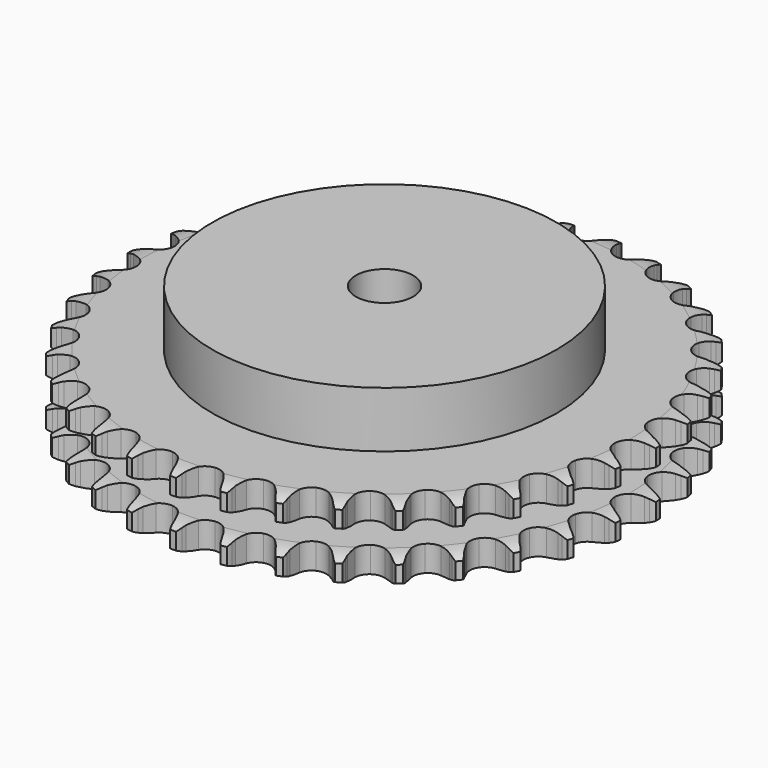
from build123d import *

# Parameters (mm, degrees)
PAD_DEPTH         = 25.5
SKETCH001_R       = 60
PAD001_DEPTH      = 45
SKETCH002_R       = 10
POCKET_DEPTH      = 0.001
POCKET_DEPTH_BACK = 45.001


with BuildPart() as part:
    # Sprocket → Pad (new body)
    with BuildSketch(Plane.XY):
        with BuildLine():
            ThreePointArc((-8.385006, 93.16505), (-7.238403, 91.760674), (-6.426064, 90.139849))
            Line((-6.426064, 90.139849), (-5.930423, 88.800984))
            ThreePointArc((-5.930423, 88.800984), (-5.146021, 87.072923), (-4.123166, 85.474409))
            ThreePointArc((-4.123166, 85.474409), (-2.306488, 83.951963), (0, 83.405822))
            ThreePointArc((0, 83.405822), (2.306488, 83.951963), (4.123166, 85.474409))
            ThreePointArc((4.123166, 85.474409), (5.146021, 87.072923), (5.930423, 88.800984))
            Line((5.930423, 88.800984), (6.426064, 90.139849))
            ThreePointArc((6.426064, 90.139849), (7.238403, 91.760674), (8.385006, 93.16505))
            ThreePointArc((8.385006, 93.16505), (9.262422, 91.578509), (9.772297, 89.838682))
            Line((9.772297, 89.838682), (10.020909, 88.432833))
            ThreePointArc((10.020909, 88.432833), (10.484149, 86.592483), (11.205139, 84.83702))
            ThreePointArc((11.205139, 84.83702), (12.72078, 83.01466), (14.892685, 82.065456))
            ThreePointArc((14.892685, 82.065456), (17.259624, 82.190981), (19.31895, 83.36458))
            Line((19.31895, 83.36458), (21.691147, 86.314997))
            ThreePointArc((21.691147, 86.314997), (22.037981, 86.939201), (22.417886, 87.543846))
            ThreePointArc((22.417886, 87.543846), (23.50658, 88.993575), (24.885518, 90.170648))
            ThreePointArc((24.885518, 90.170648), (25.465545, 88.452935), (25.656568, 86.650027))
            Line((25.656568, 86.650027), (25.650161, 85.222379))
            ThreePointArc((25.650161, 85.222379), (25.777349, 83.328889), (26.173303, 81.472899))
            ThreePointArc((26.173303, 81.472899), (27.339192, 79.409197), (29.306706, 78.087439))
            ThreePointArc((29.306706, 78.087439), (31.658021, 77.788314), (33.893808, 78.575345))
            Line((33.893808, 78.575345), (36.754699, 81.054776))
            ThreePointArc((36.754699, 81.054776), (37.207415, 81.607019), (37.689179, 82.134112))
            ThreePointArc((37.689179, 82.134112), (39.019236, 83.36615), (40.586188, 84.278088))
            ThreePointArc((40.586188, 84.278088), (40.850185, 82.484412), (40.716216, 80.676368))
            Line((40.716216, 80.676368), (40.454996, 79.272807))
            ThreePointArc((40.454996, 79.272807), (40.242044, 77.387036), (40.300235, 75.490172))
            ThreePointArc((40.300235, 75.490172), (41.078899, 73.251458), (42.778786, 71.599627))
            ThreePointArc((42.778786, 71.599627), (45.038903, 70.885465), (47.37929, 71.260634))
            Line((47.37929, 71.260634), (50.636925, 73.189387))
            ThreePointArc((50.636925, 73.189387), (51.180973, 73.65192), (51.74911, 74.084521))
            ThreePointArc((51.74911, 74.084521), (53.277782, 75.059268), (54.982385, 75.676761))
            ThreePointArc((54.982385, 75.676761), (54.921866, 73.864771), (54.467212, 72.109705))
            Line((54.467212, 72.109705), (53.959573, 70.775342))
            ThreePointArc((53.959573, 70.775342), (53.413327, 68.9579), (53.131884, 67.081129))
            ThreePointArc((53.131884, 67.081129), (53.498297, 64.739356), (54.87592, 62.810544))
            ThreePointArc((54.87592, 62.810544), (56.972198, 61.7043), (59.341963, 61.655547))
            Line((59.341963, 61.655547), (62.891639, 62.971632))
            ThreePointArc((62.891639, 62.971632), (63.509531, 63.329588), (64.145783, 63.653792))
            ThreePointArc((64.145783, 63.653792), (65.823936, 64.33992), (67.611403, 64.64312))
            ThreePointArc((67.611403, 64.64312), (67.228313, 62.871056), (66.467586, 61.225376))
            Line((66.467586, 61.225376), (65.729846, 60.0031))
            ThreePointArc((65.729846, 60.0031), (64.867861, 58.312401), (64.255831, 56.516043))
            ThreePointArc((64.255831, 56.516043), (64.198216, 54.146478), (65.209297, 52.002679))
            ThreePointArc((65.209297, 52.002679), (67.07436, 50.539908), (69.397336, 50.068801))
            Line((69.397336, 50.068801), (73.124963, 50.729916))
            ThreePointArc((73.124963, 50.729916), (73.796842, 50.971791), (74.480757, 51.177177))
            ThreePointArc((74.480757, 51.177177), (76.254454, 51.552633), (78.067335, 51.531797))
            ThreePointArc((78.067335, 51.531797), (77.373987, 49.856613), (76.331638, 48.373213))
            Line((76.331638, 48.373213), (75.387508, 47.302308))
            ThreePointArc((75.387508, 47.302308), (74.237489, 45.792693), (73.314543, 44.134486))
            ThreePointArc((73.314543, 44.134486), (72.834751, 41.813288), (73.446794, 39.523405))
            ThreePointArc((73.446794, 39.523405), (75.020696, 37.751121), (77.222222, 36.872802))
            Line((77.222222, 36.872802), (81.007991, 36.857699))
            ThreePointArc((81.007991, 36.857699), (81.712261, 36.975718), (82.421859, 37.055686))
            ThreePointArc((82.421859, 37.055686), (84.234092, 37.108402), (86.014118, 36.764198))
            ThreePointArc((86.014118, 36.764198), (85.032797, 35.239738), (83.742327, 33.966295))
            Line((83.742327, 33.966295), (82.622153, 33.081181))
            ThreePointArc((82.622153, 33.081181), (81.221063, 31.80117), (80.016865, 30.334409))
            ThreePointArc((80.016865, 30.334409), (79.130318, 28.136184), (79.32365, 25.773816))
            ThreePointArc((79.32365, 25.773816), (80.555806, 23.748983), (82.565122, 22.49168))
            Line((82.565122, 22.49168), (86.287356, 21.800845))
            ThreePointArc((86.287356, 21.800845), (87.001381, 21.791216), (87.713854, 21.743195))
            ThreePointArc((87.713854, 21.743195), (89.506377, 21.471477), (91.196337, 20.814969))
            ThreePointArc((91.196337, 20.814969), (89.958584, 19.490229), (88.46147, 18.467673))
            Line((88.46147, 18.467673), (87.201254, 17.796798))
            ThreePointArc((87.201254, 17.796798), (85.594125, 16.787531), (84.147379, 15.55936))
            ThreePointArc((84.147379, 15.55936), (82.882571, 13.55476), (82.650979, 11.195836))
            ThreePointArc((82.650979, 11.195836), (83.501786, 8.983532), (85.254311, 7.387658))
            Line((85.254311, 7.387658), (88.793374, 6.043294))
            ThreePointArc((88.793374, 6.043294), (89.494204, 5.906325), (90.186653, 5.731859))
            ThreePointArc((90.186653, 5.731859), (91.901853, 5.144441), (93.447431, 4.196729))
            ThreePointArc((93.447431, 4.196729), (91.993027, 3.114288), (90.337388, 2.375485))
            Line((90.337388, 2.375485), (88.977635, 1.940411))
            ThreePointArc((88.977635, 1.940411), (87.216122, 1.234327), (85.573327, 0.28422))
            ThreePointArc((85.573327, 0.28422), (83.97091, -1.462325), (83.321838, -3.741988))
            ThreePointArc((83.321838, -3.741988), (83.763949, -6.070656), (85.203356, -7.95381))
            Line((85.203356, -7.95381), (88.4455, -9.908493))
            ThreePointArc((88.4455, -9.908493), (89.110611, -10.168399), (89.76078, -10.463703))
            ThreePointArc((89.76078, -10.463703), (91.343527, -11.347942), (92.695047, -12.556397))
            ThreePointArc((92.695047, -12.556397), (91.070739, -13.36175), (89.309788, -13.793054))
            Line((89.309788, -13.793054), (87.894201, -13.978342))
            ThreePointArc((87.894201, -13.978342), (86.034921, -14.358549), (84.248878, -15.000055))
            ThreePointArc((84.248878, -15.000055), (82.360354, -16.432409), (81.314664, -18.559541))
            ThreePointArc((81.314664, -18.559541), (81.33387, -20.929729), (82.413896, -23.039635))
            Line((82.413896, -23.039635), (85.254914, -25.541813))
            ThreePointArc((85.254914, -25.541813), (85.862929, -25.916302), (86.449921, -26.322953))
            ThreePointArc((86.449921, -26.322953), (87.849346, -27.475592), (88.963368, -28.90595))
            ThreePointArc((88.963368, -28.90595), (87.221362, -29.408329), (85.411698, -29.518272))
            Line((85.411698, -29.518272), (83.985776, -29.44782))
            ThreePointArc((83.985776, -29.44782), (82.088486, -29.489929), (80.2166, -29.802216))
            ThreePointArc((80.2166, -29.802216), (78.102669, -30.874343), (76.693969, -32.780576))
            ThreePointArc((76.693969, -32.780576), (76.289654, -35.116103), (76.975585, -37.384948))
            Line((76.975585, -37.384948), (79.324166, -40.354199))
            ThreePointArc((79.324166, -40.354199), (79.855542, -40.831235), (80.36049, -41.336161))
            ThreePointArc((80.36049, -41.336161), (81.531615, -42.720155), (82.372333, -44.326443))
            ThreePointArc((82.372333, -44.326443), (80.568619, -44.509701), (78.768406, -44.294749))
            Line((78.768406, -44.294749), (77.377978, -43.970821))
            ThreePointArc((77.377978, -43.970821), (75.50366, -43.673479), (73.606095, -43.646509))
            ThreePointArc((73.606095, -43.646509), (71.334701, -44.32395), (69.608268, -45.948015))
            ThreePointArc((69.608268, -45.948015), (68.793426, -48.173817), (69.063215, -50.528678))
            Line((69.063215, -50.528678), (70.843874, -53.869567))
            ThreePointArc((70.843874, -53.869567), (71.281532, -54.433818), (71.688207, -55.020792))
            ThreePointArc((71.688207, -55.020792), (72.59339, -56.591656), (73.133784, -58.322247))
            ThreePointArc((73.133784, -58.322247), (71.326334, -58.180494), (69.593433, -57.647556))
            Line((69.593433, -57.647556), (68.283189, -57.080563))
            ThreePointArc((68.283189, -57.080563), (66.492085, -56.453328), (64.62983, -56.087968))
            ThreePointArc((64.62983, -56.087968), (62.273976, -56.348948), (60.2853, -57.638648))
            ThreePointArc((60.2853, -57.638648), (59.08612, -59.683184), (58.931097, -62.048375))
            Line((58.931097, -62.048375), (60.086601, -65.653523))
            ThreePointArc((60.086601, -65.653523), (60.416475, -66.286853), (60.711807, -66.937009))
            ThreePointArc((60.711807, -66.937009), (61.321954, -68.644255), (61.544655, -70.443525))
            ThreePointArc((61.544655, -70.443525), (59.791562, -69.981318), (58.181669, -69.147524))
            Line((58.181669, -69.147524), (56.993722, -68.355689))
            ThreePointArc((56.993722, -68.355689), (55.343399, -67.418719), (53.576309, -66.726713))
            ThreePointArc((53.576309, -66.726713), (51.211714, -66.562845), (49.024712, -67.476727))
            ThreePointArc((49.024712, -67.476727), (47.479738, -69.274285), (46.904885, -71.573786))
            Line((46.904885, -71.573786), (47.398095, -75.32732))
            ThreePointArc((47.398095, -75.32732), (47.609583, -76.009374), (47.784079, -76.701815))
            ThreePointArc((47.784079, -76.701815), (48.07958, -78.490571), (47.97743, -80.300691))
            ThreePointArc((47.97743, -80.300691), (46.33504, -79.532885), (44.899898, -78.425033))
            Line((44.899898, -78.425033), (43.87243, -77.433807))
            ThreePointArc((43.87243, -77.433807), (42.41593, -76.217218), (40.800801, -75.220806))
            ThreePointArc((40.800801, -75.220806), (38.503466, -74.637358), (36.18843, -75.146049))
            ThreePointArc((36.18843, -75.146049), (34.347318, -76.638853), (33.371111, -78.798756))
            Line((33.371111, -78.798756), (33.186176, -82.580036))
            ThreePointArc((33.186176, -82.580036), (33.272479, -83.288891), (33.320531, -84.001362))
            ThreePointArc((33.320531, -84.001362), (33.291888, -85.814136), (32.868171, -87.576927))
            ThreePointArc((32.868171, -87.576927), (31.389272, -86.5282), (30.175008, -85.181897))
            Line((30.175008, -85.181897), (29.341042, -84.023139))
            ThreePointArc((29.341042, -84.023139), (28.125179, -82.566033), (26.713921, -81.297241))
            ThreePointArc((26.713921, -81.297241), (24.557685, -80.312964), (22.189022, -80.400114))
            ThreePointArc((22.189022, -80.400114), (20.110946, -81.540186), (18.764763, -83.49107))
            Line((18.764763, -83.49107), (17.907626, -87.178561))
            ThreePointArc((17.907626, -87.178561), (17.865971, -87.891435), (17.786034, -88.601036))
            ThreePointArc((17.786034, -88.601036), (17.434168, -90.379564), (16.702501, -92.038368))
            ThreePointArc((16.702501, -92.038368), (15.434627, -90.742427), (14.480269, -89.200944))
            Line((14.480269, -89.200944), (13.866608, -87.911898))
            ThreePointArc((13.866608, -87.911898), (12.930461, -86.261108), (11.768435, -84.760716))
            ThreePointArc((11.768435, -84.760716), (9.822599, -83.407245), (7.47644, -83.070054))
            ThreePointArc((7.47644, -83.070054), (5.228193, -83.820749), (3.555299, -85.499912))
            Line((3.555299, -85.499912), (2.053509, -88.975096))
            ThreePointArc((2.053509, -88.975096), (1.885236, -89.669076), (1.679879, -90.353))
            ThreePointArc((1.679879, -90.353), (1.0161, -92.040118), (0, -93.541621))
            ThreePointArc((0, -93.541621), (-1.0161, -92.040118), (-1.679879, -90.353))
            Line((-1.679879, -90.353), (-2.053509, -88.975096))
            ThreePointArc((-2.053509, -88.975096), (-2.679852, -87.183679), (-3.555299, -85.499912))
            ThreePointArc((-3.555299, -85.499912), (-5.228193, -83.820749), (-7.47644, -83.070054))
            ThreePointArc((-7.47644, -83.070054), (-9.822599, -83.407245), (-11.768435, -84.760716))
            Line((-11.768435, -84.760716), (-13.866608, -87.911898))
            ThreePointArc((-13.866608, -87.911898), (-14.156092, -88.564679), (-14.480269, -89.200944))
            ThreePointArc((-14.480269, -89.200944), (-15.434627, -90.742427), (-16.702501, -92.038368))
            ThreePointArc((-16.702501, -92.038368), (-17.434168, -90.379564), (-17.786034, -88.601036))
            Line((-17.786034, -88.601036), (-17.907626, -87.178561))
            ThreePointArc((-17.907626, -87.178561), (-18.204033, -85.304095), (-18.764763, -83.49107))
            ThreePointArc((-18.764763, -83.49107), (-20.110946, -81.540186), (-22.189022, -80.400114))
            ThreePointArc((-22.189022, -80.400114), (-24.557685, -80.312964), (-26.713921, -81.297241))
            Line((-26.713921, -81.297241), (-29.341042, -84.023139))
            ThreePointArc((-29.341042, -84.023139), (-29.742432, -84.61374), (-30.175008, -85.181897))
            ThreePointArc((-30.175008, -85.181897), (-31.389272, -86.5282), (-32.868171, -87.576927))
            ThreePointArc((-32.868171, -87.576927), (-33.291888, -85.814136), (-33.320531, -84.001362))
            Line((-33.320531, -84.001362), (-33.186176, -82.580036))
            ThreePointArc((-33.186176, -82.580036), (-33.143121, -80.682768), (-33.371111, -78.798756))
            ThreePointArc((-33.371111, -78.798756), (-34.347318, -76.638853), (-36.18843, -75.146049))
            ThreePointArc((-36.18843, -75.146049), (-38.503466, -74.637358), (-40.800801, -75.220806))
            Line((-40.800801, -75.220806), (-43.87243, -77.433807))
            ThreePointArc((-43.87243, -77.433807), (-44.372826, -77.943246), (-44.899898, -78.425033))
            ThreePointArc((-44.899898, -78.425033), (-46.33504, -79.532885), (-47.97743, -80.300691))
            ThreePointArc((-47.97743, -80.300691), (-48.07958, -78.490571), (-47.784079, -76.701815))
            Line((-47.784079, -76.701815), (-47.398095, -75.32732))
            ThreePointArc((-47.398095, -75.32732), (-47.016962, -73.46823), (-46.904885, -71.573786))
            ThreePointArc((-46.904885, -71.573786), (-47.479738, -69.274285), (-49.024712, -67.476727))
            ThreePointArc((-49.024712, -67.476727), (-51.211714, -66.562845), (-53.576309, -66.726713))
            Line((-53.576309, -66.726713), (-56.993722, -68.355689))
            ThreePointArc((-56.993722, -68.355689), (-57.57704, -68.767592), (-58.181669, -69.147524))
            ThreePointArc((-58.181669, -69.147524), (-59.791562, -69.981318), (-61.544655, -70.443525))
            ThreePointArc((-61.544655, -70.443525), (-61.321954, -68.644255), (-60.711807, -66.937009))
            Line((-60.711807, -66.937009), (-60.086601, -65.653523))
            ThreePointArc((-60.086601, -65.653523), (-59.379639, -63.892363), (-58.931097, -62.048375))
            ThreePointArc((-58.931097, -62.048375), (-59.08612, -59.683184), (-60.2853, -57.638648))
            ThreePointArc((-60.2853, -57.638648), (-62.273976, -56.348948), (-64.62983, -56.087968))
            Line((-64.62983, -56.087968), (-68.283189, -57.080563))
            ThreePointArc((-68.283189, -57.080563), (-68.930681, -57.381691), (-69.593433, -57.647556))
            ThreePointArc((-69.593433, -57.647556), (-71.326334, -58.180494), (-73.133784, -58.322247))
            ThreePointArc((-73.133784, -58.322247), (-72.59339, -56.591656), (-71.688207, -55.020792))
            Line((-71.688207, -55.020792), (-70.843874, -53.869567))
            ThreePointArc((-70.843874, -53.869567), (-69.833806, -52.262942), (-69.063215, -50.528678))
            ThreePointArc((-69.063215, -50.528678), (-68.793426, -48.173817), (-69.608268, -45.948015))
            ThreePointArc((-69.608268, -45.948015), (-71.334701, -44.32395), (-73.606095, -43.646509))
            Line((-73.606095, -43.646509), (-77.377978, -43.970821))
            ThreePointArc((-77.377978, -43.970821), (-78.068833, -44.151495), (-78.768406, -44.294749))
            ThreePointArc((-78.768406, -44.294749), (-80.568619, -44.509701), (-82.372333, -44.326443))
            ThreePointArc((-82.372333, -44.326443), (-81.531615, -42.720155), (-80.36049, -41.336161))
            Line((-80.36049, -41.336161), (-79.324166, -40.354199))
            ThreePointArc((-79.324166, -40.354199), (-78.043456, -38.953748), (-76.975585, -37.384948))
            ThreePointArc((-76.975585, -37.384948), (-76.289654, -35.116103), (-76.693969, -32.780576))
            ThreePointArc((-76.693969, -32.780576), (-78.102669, -30.874343), (-80.2166, -29.802216))
            Line((-80.2166, -29.802216), (-83.985776, -29.44782))
            ThreePointArc((-83.985776, -29.44782), (-84.697789, -29.502234), (-85.411698, -29.518272))
            ThreePointArc((-85.411698, -29.518272), (-87.221362, -29.408329), (-88.963368, -28.90595))
            ThreePointArc((-88.963368, -28.90595), (-87.849346, -27.475592), (-86.449921, -26.322953))
            Line((-86.449921, -26.322953), (-85.254914, -25.541813))
            ThreePointArc((-85.254914, -25.541813), (-83.744726, -24.392548), (-82.413896, -23.039635))
            ThreePointArc((-82.413896, -23.039635), (-81.33387, -20.929729), (-81.314664, -18.559541))
            ThreePointArc((-81.314664, -18.559541), (-82.360354, -16.432409), (-84.248878, -15.000055))
            Line((-84.248878, -15.000055), (-87.894201, -13.978342))
            ThreePointArc((-87.894201, -13.978342), (-88.604488, -13.904747), (-89.309788, -13.793054))
            ThreePointArc((-89.309788, -13.793054), (-91.070739, -13.36175), (-92.695047, -12.556397))
            ThreePointArc((-92.695047, -12.556397), (-91.343527, -11.347942), (-89.76078, -10.463703))
            Line((-89.76078, -10.463703), (-88.4455, -9.908493))
            ThreePointArc((-88.4455, -9.908493), (-86.754371, -9.047351), (-85.203356, -7.95381))
            ThreePointArc((-85.203356, -7.95381), (-83.763949, -6.070656), (-83.321838, -3.741988))
            ThreePointArc((-83.321838, -3.741988), (-83.97091, -1.462325), (-85.573327, 0.28422))
            Line((-85.573327, 0.28422), (-88.977635, 1.940411))
            ThreePointArc((-88.977635, 1.940411), (-89.663366, 2.13965), (-90.337388, 2.375485))
            ThreePointArc((-90.337388, 2.375485), (-91.993027, 3.114288), (-93.447431, 4.196729))
            ThreePointArc((-93.447431, 4.196729), (-91.901853, 5.144441), (-90.186653, 5.731859))
            Line((-90.186653, 5.731859), (-88.793374, 6.043294))
            ThreePointArc((-88.793374, 6.043294), (-86.97566, 6.588635), (-85.254311, 7.387658))
            ThreePointArc((-85.254311, 7.387658), (-83.501786, 8.983532), (-82.650979, 11.195836))
            ThreePointArc((-82.650979, 11.195836), (-82.882571, 13.55476), (-84.147379, 15.55936))
            Line((-84.147379, 15.55936), (-87.201254, 17.796798))
            ThreePointArc((-87.201254, 17.796798), (-87.840389, 18.115277), (-88.46147, 18.467673))
            ThreePointArc((-88.46147, 18.467673), (-89.958584, 19.490229), (-91.196337, 20.814969))
            ThreePointArc((-91.196337, 20.814969), (-89.506377, 21.471477), (-87.713854, 21.743195))
            Line((-87.713854, 21.743195), (-86.287356, 21.800845))
            ThreePointArc((-86.287356, 21.800845), (-84.401479, 22.012856), (-82.565122, 22.49168))
            ThreePointArc((-82.565122, 22.49168), (-80.555806, 23.748983), (-79.32365, 25.773816))
            ThreePointArc((-79.32365, 25.773816), (-79.130318, 28.136184), (-80.016865, 30.334409))
            Line((-80.016865, 30.334409), (-82.622153, 33.081181))
            ThreePointArc((-82.622153, 33.081181), (-83.194151, 33.508665), (-83.742327, 33.966295))
            ThreePointArc((-83.742327, 33.966295), (-85.032797, 35.239738), (-86.014118, 36.764198))
            ThreePointArc((-86.014118, 36.764198), (-84.234092, 37.108402), (-82.421859, 37.055686))
            Line((-82.421859, 37.055686), (-81.007991, 36.857699))
            ThreePointArc((-81.007991, 36.857699), (-79.114565, 36.729567), (-77.222222, 36.872802))
            ThreePointArc((-77.222222, 36.872802), (-75.020696, 37.751121), (-73.446794, 39.523405))
            ThreePointArc((-73.446794, 39.523405), (-72.834751, 41.813288), (-73.314543, 44.134486))
            Line((-73.314543, 44.134486), (-75.387508, 47.302308))
            ThreePointArc((-75.387508, 47.302308), (-75.873983, 47.825056), (-76.331638, 48.373213))
            ThreePointArc((-76.331638, 48.373213), (-77.373987, 49.856613), (-78.067335, 51.531797))
            ThreePointArc((-78.067335, 51.531797), (-76.254454, 51.552633), (-74.480757, 51.177177))
            Line((-74.480757, 51.177177), (-73.124963, 50.729916))
            ThreePointArc((-73.124963, 50.729916), (-71.284844, 50.265759), (-69.397336, 50.068801))
            ThreePointArc((-69.397336, 50.068801), (-67.07436, 50.539908), (-65.209297, 52.002679))
            ThreePointArc((-65.209297, 52.002679), (-64.198216, 54.146478), (-64.255831, 56.516043))
            Line((-64.255831, 56.516043), (-65.729846, 60.0031))
            ThreePointArc((-65.729846, 60.0031), (-66.115164, 60.60431), (-66.467586, 61.225376))
            ThreePointArc((-66.467586, 61.225376), (-67.228313, 62.871056), (-67.611403, 64.64312))
            ThreePointArc((-67.611403, 64.64312), (-65.823936, 64.33992), (-64.145783, 63.653792))
            Line((-64.145783, 63.653792), (-62.891639, 62.971632))
            ThreePointArc((-62.891639, 62.971632), (-61.16397, 62.186368), (-59.341963, 61.655547))
            ThreePointArc((-59.341963, 61.655547), (-56.972198, 61.7043), (-54.87592, 62.810544))
            ThreePointArc((-54.87592, 62.810544), (-53.498297, 64.739356), (-53.131884, 67.081129))
            Line((-53.131884, 67.081129), (-53.959573, 70.775342))
            ThreePointArc((-53.959573, 70.775342), (-54.231348, 71.435692), (-54.467212, 72.109705))
            ThreePointArc((-54.467212, 72.109705), (-54.921866, 73.864771), (-54.982385, 75.676761))
            ThreePointArc((-54.982385, 75.676761), (-53.277782, 75.059268), (-51.74911, 74.084521))
            Line((-51.74911, 74.084521), (-50.636925, 73.189387))
            ThreePointArc((-50.636925, 73.189387), (-49.077235, 72.108256), (-47.37929, 71.260634))
            ThreePointArc((-47.37929, 71.260634), (-45.038903, 70.885465), (-42.778786, 71.599627))
            ThreePointArc((-42.778786, 71.599627), (-41.078899, 73.251458), (-40.300235, 75.490172))
            Line((-40.300235, 75.490172), (-40.454996, 79.272807))
            ThreePointArc((-40.454996, 79.272807), (-40.604493, 79.971073), (-40.716216, 80.676368))
            ThreePointArc((-40.716216, 80.676368), (-40.850185, 82.484412), (-40.586188, 84.278088))
            ThreePointArc((-40.586188, 84.278088), (-39.019236, 83.36615), (-37.689179, 82.134112))
            Line((-37.689179, 82.134112), (-36.754699, 81.054776))
            ThreePointArc((-36.754699, 81.054776), (-35.413117, 79.712525), (-33.893808, 78.575345))
            ThreePointArc((-33.893808, 78.575345), (-31.658021, 77.788314), (-29.306706, 78.087439))
            ThreePointArc((-29.306706, 78.087439), (-27.339192, 79.409197), (-26.173303, 81.472899))
            Line((-26.173303, 81.472899), (-25.650161, 85.222379))
            ThreePointArc((-25.650161, 85.222379), (-25.672575, 85.936117), (-25.656568, 86.650027))
            ThreePointArc((-25.656568, 86.650027), (-25.465545, 88.452935), (-24.885518, 90.170648))
            ThreePointArc((-24.885518, 90.170648), (-23.50658, 88.993575), (-22.417886, 87.543846))
            Line((-22.417886, 87.543846), (-21.691147, 86.314997))
            ThreePointArc((-21.691147, 86.314997), (-20.610793, 84.754768), (-19.31895, 83.36458))
            ThreePointArc((-19.31895, 83.36458), (-17.259624, 82.190981), (-14.892685, 82.065456))
            ThreePointArc((-14.892685, 82.065456), (-12.72078, 83.01466), (-11.205139, 84.83702))
            Line((-11.205139, 84.83702), (-10.020909, 88.432833))
            ThreePointArc((-10.020909, 88.432833), (-9.91552, 89.139103), (-9.772297, 89.838682))
            ThreePointArc((-9.772297, 89.838682), (-9.262422, 91.578509), (-8.385006, 93.16505))
        make_face()
    extrude(amount=PAD_DEPTH)

    # Sketch → Groove (revolve, cut)
    with BuildSketch(Plane.XZ):
        with BuildLine():
            ThreePointArc((85.075762, 0), (88.65347, 0.405129), (92.05, 1.6))
            Line((92.05, 1.6), (92.05, 7.4))
            ThreePointArc((92.05, 7.4), (88.65347, 8.594871), (85.075762, 9))
            Line((60, 9), (85.075762, 9))
            Line((60, 16.5), (60, 9))
            Line((85.075762, 16.5), (60, 16.5))
            ThreePointArc((85.075762, 16.5), (88.65347, 16.905129), (92.05, 18.1))
            Line((92.05, 18.1), (92.05, 23.9))
            ThreePointArc((92.05, 23.9), (88.65347, 25.094871), (85.075762, 25.5))
            Line((85.075762, 25.5), (95.075762, 25.5))
            Line((95.075762, 25.5), (95.075762, 0))
            Line((85.075762, 0), (95.075762, 0))
        make_face()
    revolve(axis=Axis((0, 0, 0), (0, 0, 1)), mode=Mode.SUBTRACT)

    # Sketch001 → Pad001 (join)
    with BuildSketch(Plane.XY):
        Circle(SKETCH001_R)
    extrude(amount=PAD001_DEPTH)

    # Sketch002 → Pocket (cut, two sides)
    with BuildSketch(Plane.XY) as pocket_sk:
        Circle(SKETCH002_R)
    extrude(amount=-POCKET_DEPTH, mode=Mode.SUBTRACT)
    extrude(pocket_sk.sketch, amount=POCKET_DEPTH_BACK, mode=Mode.SUBTRACT)


solid = part.part
